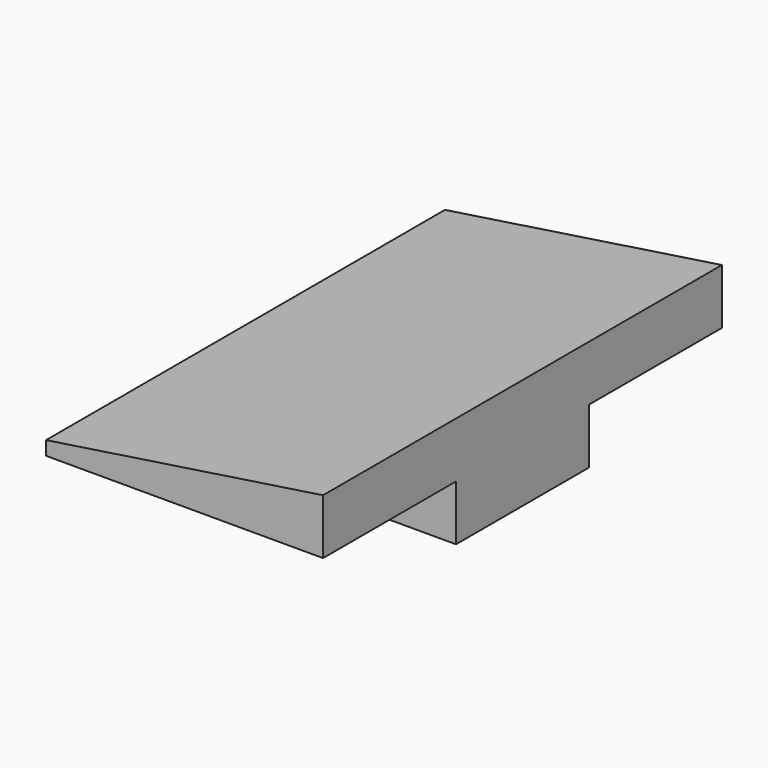
from build123d import *

# Parameters (mm, degrees)
F0_W     = 10
F0_H     = 18
F1_DEPTH = 4
F3_DEPTH = 18.001
F4_W     = 10
F4_H     = 6
F5_DEPTH = 2


with BuildPart() as f1:
    # F0 (on Top) → F1 (new body)
    with BuildSketch(Plane.XY):
        Rectangle(F0_W, F0_H)
    extrude(amount=F1_DEPTH)

    # F2 (on face) → F3 (intersect, through all)
    with BuildSketch(Plane.XZ.offset(9)):
        Polygon((5, 2), (-5, 0.5), (-5, 0), (5, 0), align=None)
    extrude(amount=-F3_DEPTH, mode=Mode.INTERSECT)

    # F4 (on face) → F5 (join)
    with BuildSketch(Plane(origin=(0, 0, 0), x_dir=(1, 0, 0), z_dir=(0, 0, -1))):
        Rectangle(F4_W, F4_H)
    extrude(amount=F5_DEPTH)


solid = f1.part
